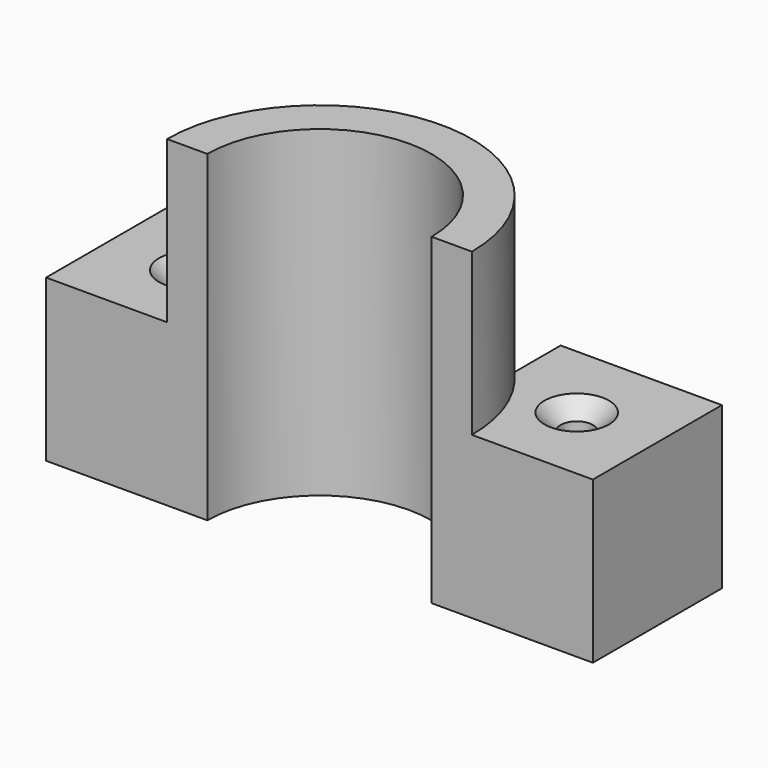
from build123d import *

# Parameters (mm, degrees)
F0_W     = 6.35
F0_H     = 50.8
F1_ANGLE = 180
F2_R     = 2.54
F3_DEPTH = 25.4
F4_SIZE  = 2.54


with BuildPart() as f1:
    # F0 (on Front) → F1 (revolve)
    with BuildSketch(Plane.XZ):
        with Locations((20.828, 25.4)):
            Rectangle(F0_W, F0_H)
    revolve(axis=Axis((0, 0, 25.4), (0, 0, 1)), revolution_arc=F1_ANGLE)

    # F2 (on face) → F3 (join)
    with BuildSketch(Plane(origin=(0, 0, 0), x_dir=(1, 0, 0), z_dir=(0, 0, -1))):
        with BuildLine():
            Line((43.053, 0), (24.003, 0))
            ThreePointArc((24.003, 0), (22.359215, -8.729807), (17.653, -16.263936))
            Line((17.653, -16.263936), (17.653, -25.4))
            Line((17.653, -25.4), (43.053, -25.4))
            Line((43.053, -25.4), (43.053, 0))
        make_face()
        with Locations((30.353, -12.7)):
            Circle(F2_R, mode=Mode.SUBTRACT)
        with BuildLine():
            Line((-17.653, -25.4), (-17.653, -16.263936))
            ThreePointArc((-17.653, -16.263936), (-22.359215, -8.729807), (-24.003, 0))
            Line((-24.003, 0), (-43.053, 0))
            Line((-43.053, 0), (-43.053, -25.4))
            Line((-43.053, -25.4), (-17.653, -25.4))
        make_face()
        with Locations((-30.353, -12.7)):
            Circle(F2_R, mode=Mode.SUBTRACT)
    extrude(amount=-F3_DEPTH)

    # F4
    f4_edges = [f1.edges().sort_by_distance(p)[0] for p in [
        (-32.893, 12.7, 25.4),
        (27.813, 12.7, 25.4),
    ]]
    chamfer(f4_edges, length=F4_SIZE)


solid = f1.part
